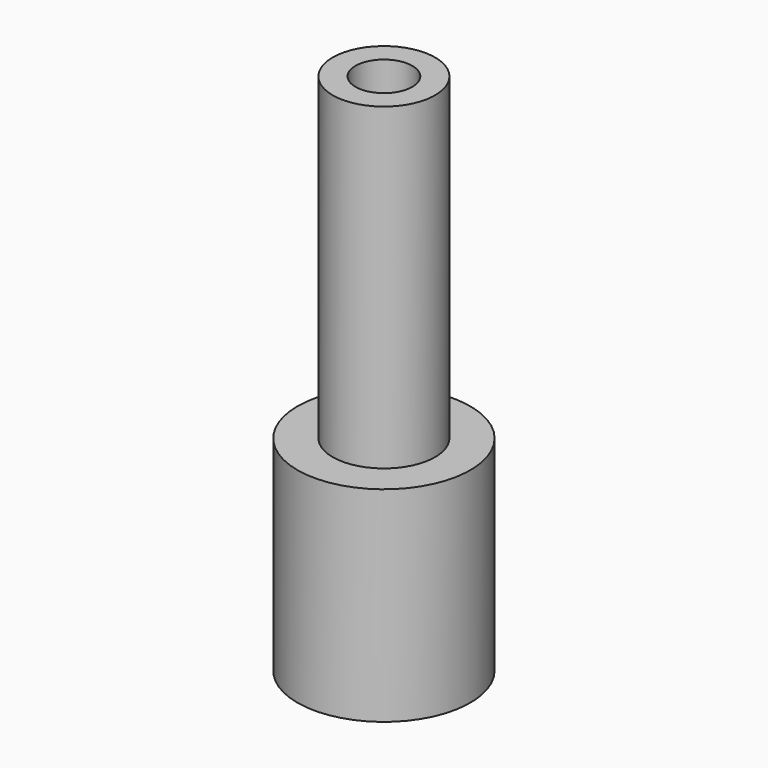
from build123d import *


with BuildPart() as f1:
    # F0 (on Front) → F1 (revolve)
    with BuildSketch(Plane.XZ):
        Polygon((-3.8, 0), (-2.8, 0), (-2.8, 6.45), (-2.8, 8), (-1.25, 8), (-1.25, 23), (-2.25, 23), (-2.25, 9), (-3.8, 9), align=None)
        Polygon((-2.8, 8), (-2.8, 6.45), (-1.25, 8), align=None)
    revolve(axis=Axis((0, 0, 11.5), (0, 0, -1)))


solid = f1.part
